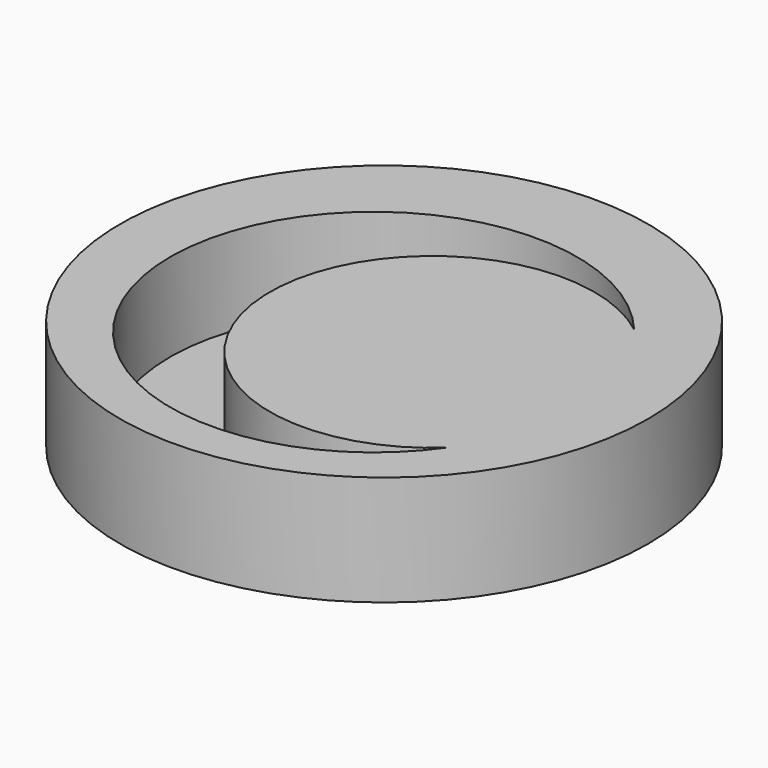
from build123d import *

# Parameters (mm, degrees)
F0_R     = 15.24
F1_DEPTH = 6.35
F3_DEPTH = 5.08


with BuildPart() as f1:
    # F0 (on Top) → F1 (new body)
    with BuildSketch(Plane.XY):
        Circle(F0_R)
    extrude(amount=F1_DEPTH)

    # F2 (on face) → F3 (cut)
    with BuildSketch(Plane.XY.offset(6.35)):
        with BuildLine():
            ThreePointArc((9.901989, -7.84805), (-5.815469, -1.361786), (9.296953, 6.430826))
            ThreePointArc((9.296953, 6.430826), (-11.460374, -1.600977), (9.901989, -7.84805))
        make_face()
    extrude(amount=-F3_DEPTH, mode=Mode.SUBTRACT)


solid = f1.part
